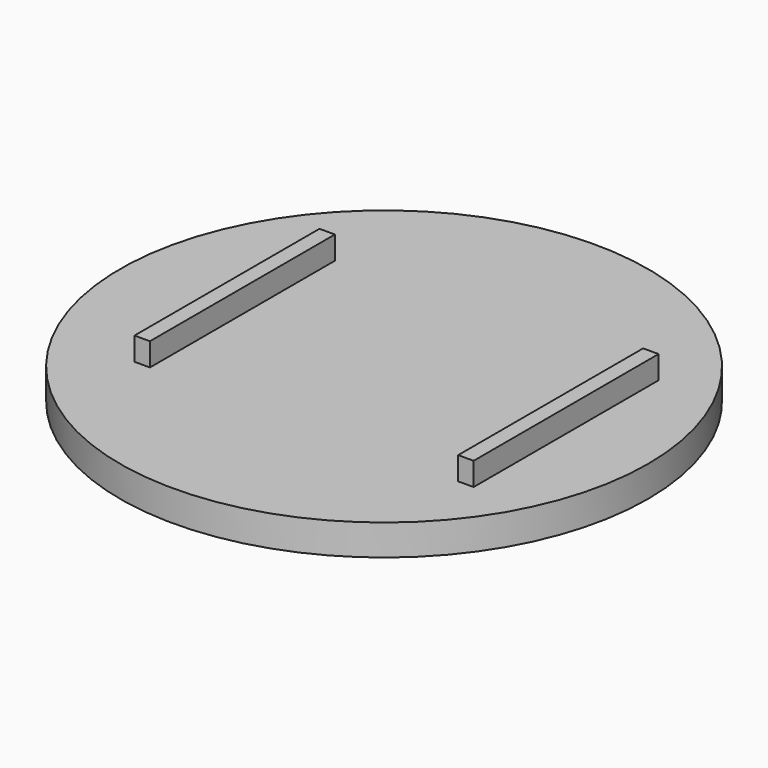
from build123d import *

# Parameters (mm, degrees)
F0_R     = 34.25
F1_DEPTH = 4
F3_DEPTH = 3


with BuildPart() as f1:
    # F0 (on Top) → F1 (new body)
    with BuildSketch(Plane.XY):
        Circle(F0_R)
    extrude(amount=F1_DEPTH)

    # F2 (on face) → F3 (join)
    with BuildSketch(Plane.XY.offset(4)):
        Polygon((21.615493, 15), (21.615493, 0), (21.615493, -15), (23.615493, -15), (23.615493, 15), align=None)
        Polygon((-18.384507, -15), (-18.384507, 0), (-18.384507, 15), (-20.384507, 15), (-20.384507, -15), align=None)
    extrude(amount=F3_DEPTH)


solid = f1.part
